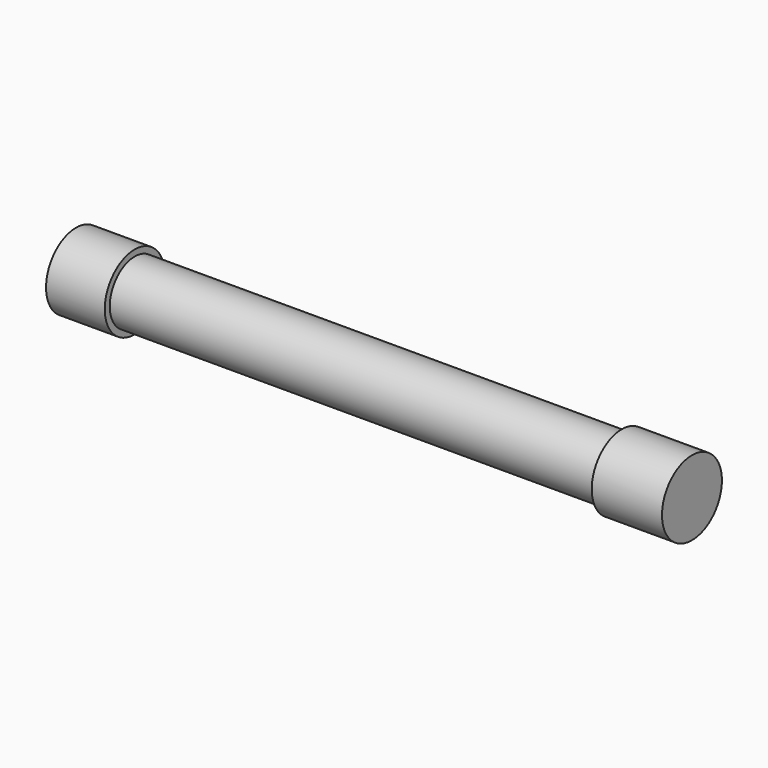
from build123d import *

# Parameters (mm, degrees)
F0_R          = 9.525
F1_DEPTH      = 6.35
F1_DEPTH_BACK = 8.58774
F2_R          = 7.9375
F3_DEPTH      = 123.825
F4_R          = 9.525
F5_DEPTH      = 15.24
F6_DEPTH      = 2.62128


with BuildPart() as f1:
    # F0 (on Right) → F1 (new body, two sides)
    with BuildSketch(Plane.YZ) as f1_sk:
        Circle(F0_R)
    extrude(amount=F1_DEPTH)
    extrude(f1_sk.sketch, amount=-F1_DEPTH_BACK)

    # F2 (on face) → F3 (join)
    with BuildSketch(Plane.YZ.offset(6.35)):
        Circle(F2_R)
    extrude(amount=F3_DEPTH)

    # F4 (on face) → F5 (join)
    with BuildSketch(Plane.YZ.offset(130.175)):
        Circle(F4_R)
    extrude(amount=F5_DEPTH)

    # F6 (add): a face of the model
    f6_faces = [f1.faces().sort_by_distance(p)[0] for p in [
        (145.415, 0, 0),
    ]]
    extrude(f6_faces, amount=F6_DEPTH)


solid = f1.part
